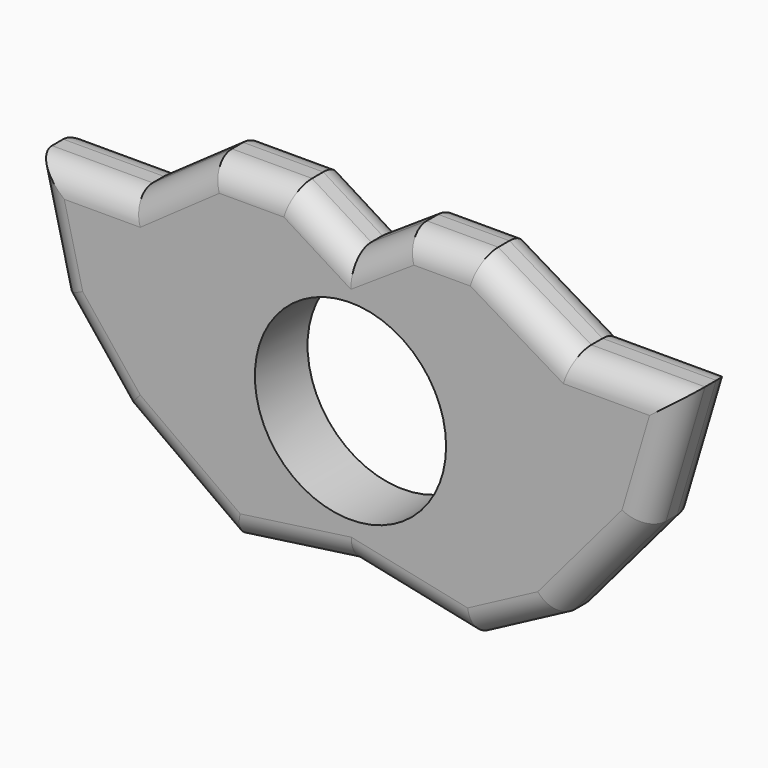
from build123d import *

# Parameters (mm, degrees)
F1_DEPTH = 7.62
F2_R     = 11.0625
F3_DEPTH = 10
F4_R     = 3


with BuildPart() as f1:
    # F0 (on Front) → F1 (new body)
    with BuildSketch(Plane.XZ):
        Polygon((0, 2.178027), (-6.844124, 6.442403), (-16.118215, 6.442403), (-25.278939, 0), (-36.931682, 0), (-33.736575, -13.062352), (-26.406623, -22.271778), (-13.536484, -31.557597), (0, -29.661065), (14.002089, -32.608893), (23.587411, -27.53431), (34.112468, -15.129773), (38.62321, 0), (25.466887, 0), (14.694345, 6.442403), (6.435679, 6.442403), align=None)
    extrude(amount=F1_DEPTH)

    # F2 (on face) → F3 (cut)
    with BuildSketch(Plane.XZ.offset(7.62)):
        with Locations((0, -13.812818)):
            Circle(F2_R)
    extrude(amount=-F3_DEPTH, mode=Mode.SUBTRACT)

    # F4
    f4_edges = [f1.edges().sort_by_distance(p)[0] for p in [
        (-35.334129, -7.62, -6.531176),
        (-30.071599, -7.62, -17.667065),
        (-19.971554, -7.62, -26.914688),
        (-6.768242, -7.62, -30.609331),
        (7.001045, -7.62, -31.134979),
        (18.79475, -7.62, -30.071601),
        (28.84994, -7.62, -21.332041),
        (36.367839, -7.62, -7.564886),
        (32.045049, -7.62, 0),
        (20.080616, -7.62, 3.221201),
        (10.565012, -7.62, 6.442403),
        (3.21784, -7.62, 4.310215),
        (-3.422062, -7.62, 4.310215),
        (-11.481169, -7.62, 6.442403),
        (-20.698577, -7.62, 3.221201),
        (-31.105311, -7.62, 0),
        (-31.105311, 0, 0),
        (-35.334129, 0, -6.531176),
        (-30.071599, 0, -17.667065),
        (-19.971554, 0, -26.914688),
        (-6.768242, 0, -30.609331),
        (7.001045, 0, -31.134979),
        (18.79475, 0, -30.071601),
        (28.84994, 0, -21.332041),
        (36.367839, 0, -7.564886),
        (32.045049, 0, 0),
        (20.080616, 0, 3.221201),
        (10.565012, 0, 6.442403),
        (3.21784, 0, 4.310215),
        (-3.422062, 0, 4.310215),
        (-11.481169, 0, 6.442403),
        (-20.698577, 0, 3.221201),
    ]]
    fillet(f4_edges, radius=F4_R)


solid = f1.part
